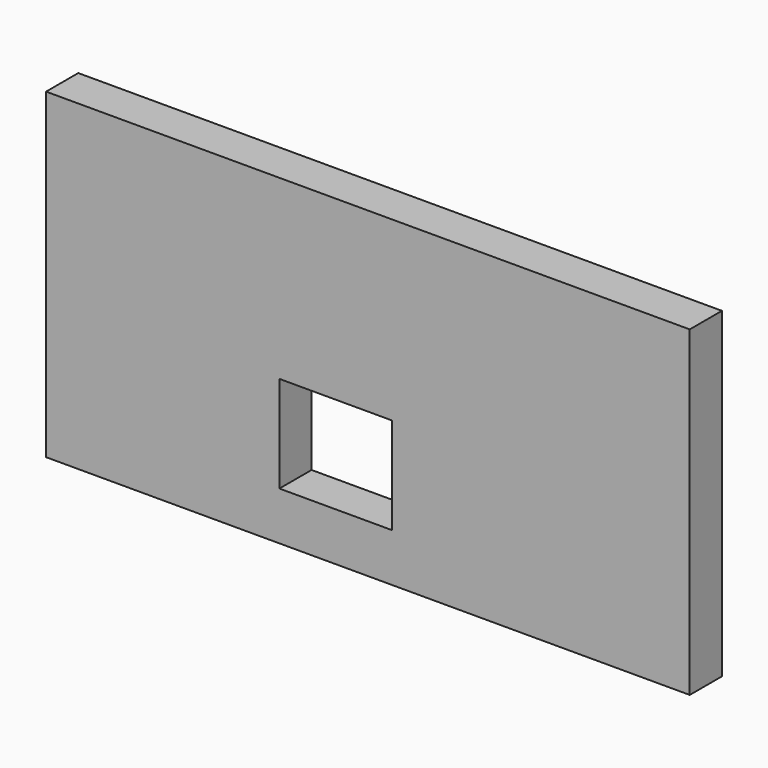
from build123d import *

# Parameters (mm, degrees)
F0_W     = 80
F0_H     = 40
F0_W_2   = 14
F0_H_2   = 12
F1_DEPTH = 5


with BuildPart() as f1:
    # F0 (on Front) → F1 (new body)
    with BuildSketch(Plane.XZ):
        with Locations((-4e-06, -4.733131)):
            Rectangle(F0_W, F0_H)
        with Locations((-4.000004, -12.733131)):
            Rectangle(F0_W_2, F0_H_2, mode=Mode.SUBTRACT)
    extrude(amount=F1_DEPTH)


solid = f1.part
